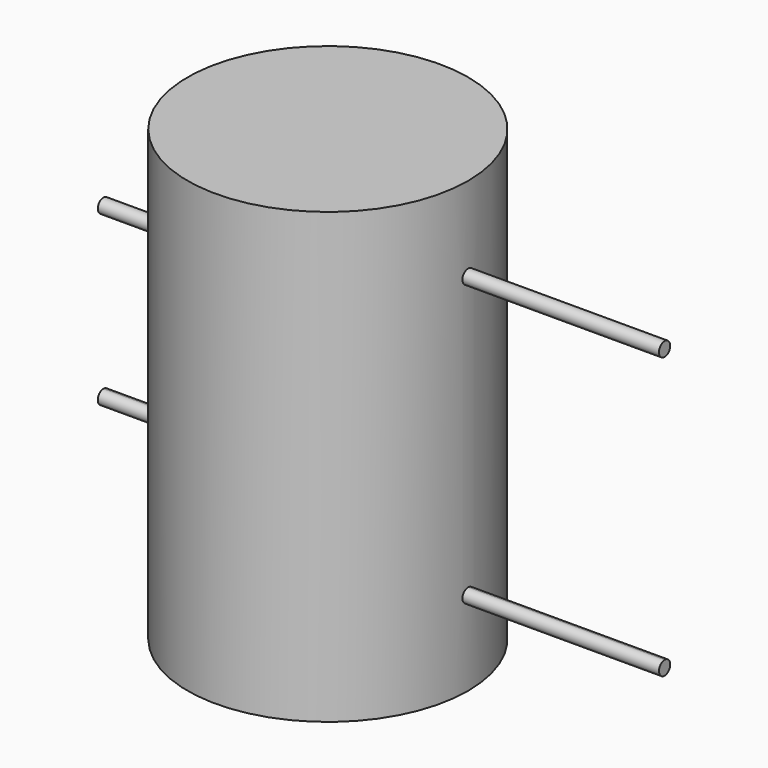
from build123d import *

# Parameters (mm, degrees)
F0_R          = 31.75
F1_DEPTH      = 50.8
F1_DEPTH_BACK = 50.8
F3_DEPTH      = 76.2
F5_DEPTH      = 50.8


with BuildPart() as f1:
    # F0 (on Top) → F1 (new body, two sides)
    with BuildSketch(Plane.XY) as f1_sk:
        Circle(F0_R)
    extrude(amount=F1_DEPTH)
    extrude(f1_sk.sketch, amount=-F1_DEPTH_BACK)

    # F2 (on Right) → F3 (join)
    with BuildSketch(Plane.YZ):
        with BuildLine():
            ThreePointArc((1.5875, -31.75), (1.122532, -30.627468), (0, -30.1625))
            ThreePointArc((0, -30.1625), (-1.122532, -32.872532), (1.5875, -31.75))
        make_face()
        with BuildLine():
            ThreePointArc((1.5875, 31.75), (-1.122532, 32.872532), (0, 30.1625))
            ThreePointArc((0, 30.1625), (1.122532, 30.627468), (1.5875, 31.75))
        make_face()
    extrude(amount=F3_DEPTH)

    # F4 (on Right) → F5 (join)
    with BuildSketch(Plane.YZ):
        with BuildLine():
            ThreePointArc((1.5875, 19.05), (-1.122532, 20.172532), (0, 17.4625))
            ThreePointArc((0, 17.4625), (1.122532, 17.927468), (1.5875, 19.05))
        make_face()
        with BuildLine():
            ThreePointArc((1.5875, -19.05), (1.122532, -17.927468), (0, -17.4625))
            ThreePointArc((0, -17.4625), (-1.122532, -20.172532), (1.5875, -19.05))
        make_face()
    extrude(amount=-F5_DEPTH)


solid = f1.part
